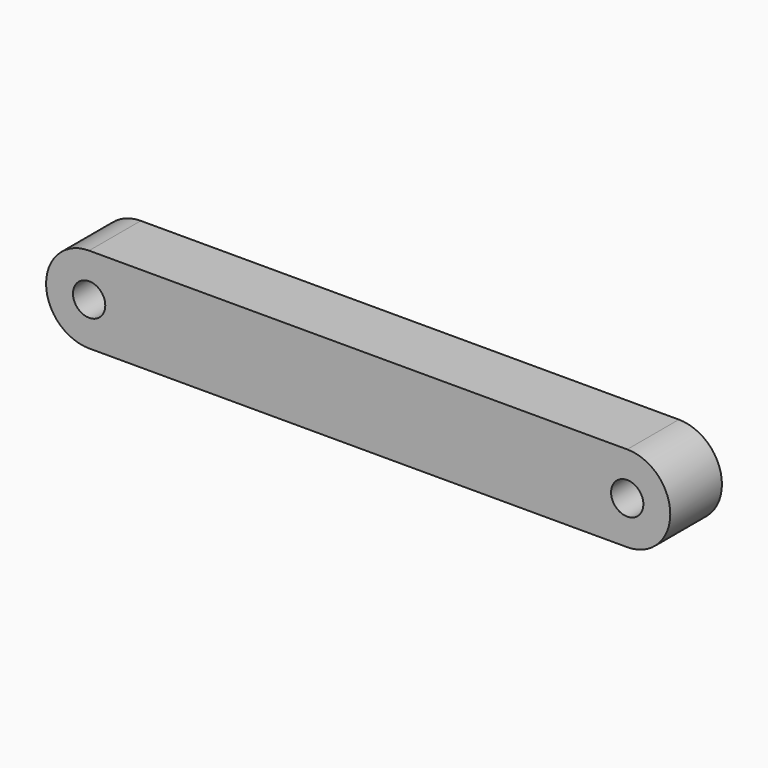
from build123d import *

# Parameters (mm, degrees)
F1_DEPTH = 6
F2_R     = 1.5
F3_DEPTH = 6.001
F4_R     = 1.5
F5_DEPTH = 6.001


with BuildPart() as f1:
    # F0 (on Front) → F1 (new body)
    with BuildSketch(Plane.XZ):
        with BuildLine():
            ThreePointArc((0, 8), (-4, 4), (0, 0))
            Line((0, 0), (50, 0))
            ThreePointArc((50, 0), (54, 4), (50, 8))
            Line((50, 8), (0, 8))
        make_face()
    extrude(amount=F1_DEPTH)

    # F2 (on face) → F3 (cut, through all)
    with BuildSketch(Plane.XZ.offset(6)):
        with Locations((0, 4)):
            Circle(F2_R)
    extrude(amount=-F3_DEPTH, mode=Mode.SUBTRACT)

    # F4 (on face) → F5 (cut, through all)
    with BuildSketch(Plane.XZ.offset(6)):
        with Locations((50, 4)):
            Circle(F4_R)
    extrude(amount=-F5_DEPTH, mode=Mode.SUBTRACT)


solid = f1.part
